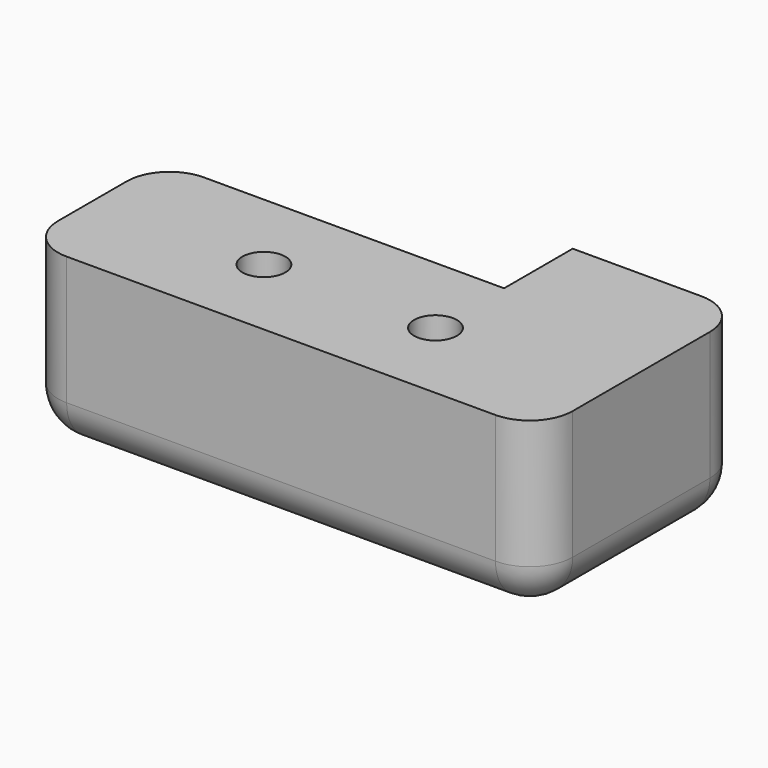
from build123d import *

# Parameters (mm, degrees)
F1_DEPTH = 50.8
F2_R     = 12.7
F4_D     = 12.7


with BuildPart() as f1:
    # F0 (on Top) → F1 (new body)
    with BuildSketch(Plane.XY):
        Polygon((0, 50.8), (0, 0), (152.4, 0), (152.4, 76.2), (101.6, 76.2), (101.6, 50.8), align=None)
    extrude(amount=F1_DEPTH)

    # F2
    f2_edges = [f1.edges().sort_by_distance(p)[0] for p in [
        (0, 25.4, 0),
        (76.2, 0, 0),
        (152.4, 38.1, 0),
        (127, 76.2, 0),
        (101.6, 63.5, 0),
        (50.8, 50.8, 0),
        (152.4, 0, 25.4),
        (0, 0, 25.4),
        (0, 50.8, 25.4),
        (152.4, 76.2, 25.4),
    ]]
    fillet(f2_edges, radius=F2_R)

    # F4 (through all)
    with Locations(Plane.XY.offset(50.8)):
        with Locations((50.8, 25.4), (101.6, 25.4)):
            Hole(F4_D / 2)


solid = f1.part
